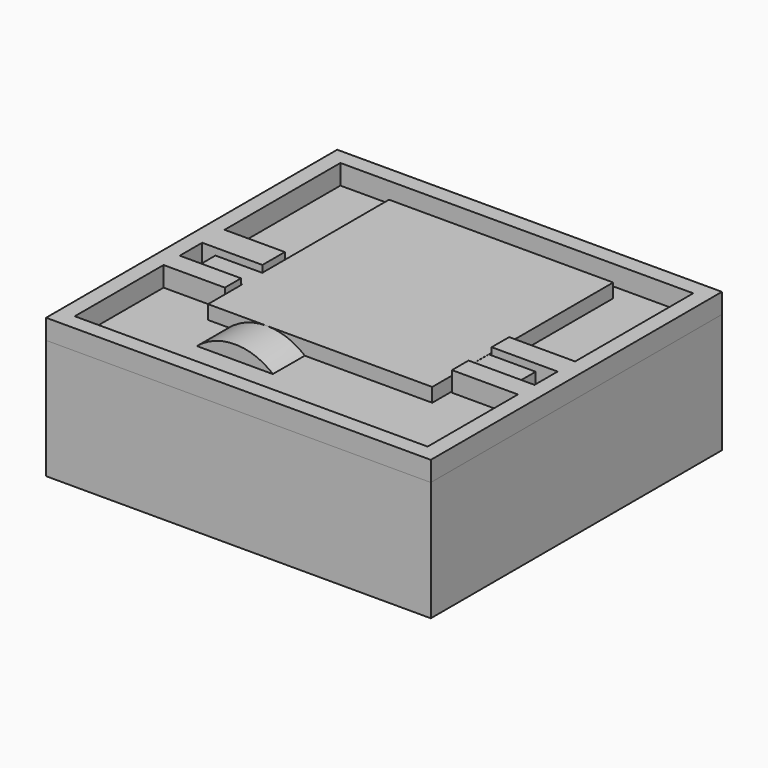
from build123d import *

# Parameters (mm, degrees)
SKETCH_W      = 22.5
SKETCH_H      = 22.7
PAD_DEPTH     = 11.8
SKETCH001_W   = 2.5
SKETCH001_H   = 11.788695
PAD001_DEPTH  = 4.7
SKETCH002_W   = 2.5
SKETCH002_H   = 11.8
PAD002_DEPTH  = 4.7
SKETCH004_R   = 5.9
PAD003_DEPTH  = 4
SKETCH005_R   = 2.3
PAD004_DEPTH  = 3.2
PAD005_DEPTH  = 4
SKETCH017_W   = 38.610273
SKETCH017_H   = 36.519459
PAD006_DEPTH  = 14
THICKNESS_T   = -1.6
SKETCH021_W   = 6.043429
SKETCH021_H   = 2.81074
SKETCH021_W_2 = 6.149557
SKETCH021_H_2 = 2.027571
SKETCH021_W_3 = 6.620328
SKETCH021_H_3 = 2.195064
SKETCH021_H_4 = 2.082495
PAD008_DEPTH  = 12.4
SKETCH018_W   = 38.610273
SKETCH018_H   = 36.519459
PAD007_DEPTH  = 12


with BuildPart() as body:
    # Sketch → Pad (new body)
    with BuildSketch(Plane.XY):
        with Locations((11.25, 11.35)):
            Rectangle(SKETCH_W, SKETCH_H)
    extrude(amount=PAD_DEPTH)

    # Sketch001 (on Face2 of Pad) → Pad001 (join)
    with BuildSketch(Plane.YZ.offset(22.5)):
        with Locations((5.85, 5.8943475)):
            Rectangle(SKETCH001_W, SKETCH001_H)
    extrude(amount=PAD001_DEPTH)

    # Sketch002 (on Face2 of Pad001) → Pad002 (join)
    with BuildSketch(Plane(origin=(0, 0, 0), x_dir=(0, -1, 0), z_dir=(-1, 0, 0))):
        with Locations((-5.55, 5.9)):
            Rectangle(SKETCH002_W, SKETCH002_H)
    extrude(amount=PAD002_DEPTH)

    # Sketch004 (on Face1 of Pad002) → Pad003 (join)
    with BuildSketch(Plane.XZ):
        with Locations((5.9, 5.9)):
            Circle(SKETCH004_R)
    extrude(amount=PAD003_DEPTH)

    # Sketch005 (on Face12 of Pad003) → Pad004 (join)
    with BuildSketch(Plane.XZ.offset(4)):
        with Locations((5.9, 5.9)):
            Circle(SKETCH005_R)
    extrude(amount=PAD004_DEPTH)

    # Sketch016 (on Face5 of Pad004) → Pad005 (join)
    with BuildSketch(Plane.XZ):
        with BuildLine():
            ThreePointArc((7.2, 8.4), (4.7, 5.9), (7.2, 3.4))
            Line((7.2, 3.4), (12.2, 3.4))
            ThreePointArc((12.2, 3.4), (14.7, 5.9), (12.2, 8.4))
            Line((12.2, 8.4), (7.2, 8.4))
        make_face()
    extrude(amount=PAD005_DEPTH)


with BuildPart() as body_1:
    # Body placement: moved
    add(body.part.moved(Location((0, 1.2, 1.6))))


with BuildPart() as body001:
    # Sketch017 → Pad006 (new body)
    with BuildSketch(Plane.XY):
        with Locations((11.5555795, 8.8283305)):
            Rectangle(SKETCH017_W, SKETCH017_H)
    extrude(amount=PAD006_DEPTH)

    # Thickness
    thickness_openings = [body001.faces().sort_by_distance(p)[0] for p in [
        (11.55558, 8.828331, 14),
    ]]
    offset(amount=THICKNESS_T, openings=thickness_openings, kind=Kind.INTERSECTION)

    # Sketch021 (on Face11 of Thickness) → Pad008 (join)
    with BuildSketch(Plane.XY.offset(1.6)):
        with Locations((-3.1278425, 9.558409)):
            Rectangle(SKETCH021_W, SKETCH021_H)
        with Locations((-3.0747785, 4.3224895)):
            Rectangle(SKETCH021_W_2, SKETCH021_H_2)
        with Locations((25.950552, 9.575814)):
            Rectangle(SKETCH021_W_3, SKETCH021_H_3)
        with Locations((25.950552, 4.5384255)):
            Rectangle(SKETCH021_W_3, SKETCH021_H_4)
    extrude(amount=PAD008_DEPTH)


with BuildPart() as body002:
    # Sketch018 → Pad007 (new body)
    with BuildSketch(Plane.XY):
        with Locations((11.5555795, 8.8283305)):
            Rectangle(SKETCH018_W, SKETCH018_H)
    extrude(amount=PAD007_DEPTH)


solid = Compound([body_1.part, body001.part, body002.part])
